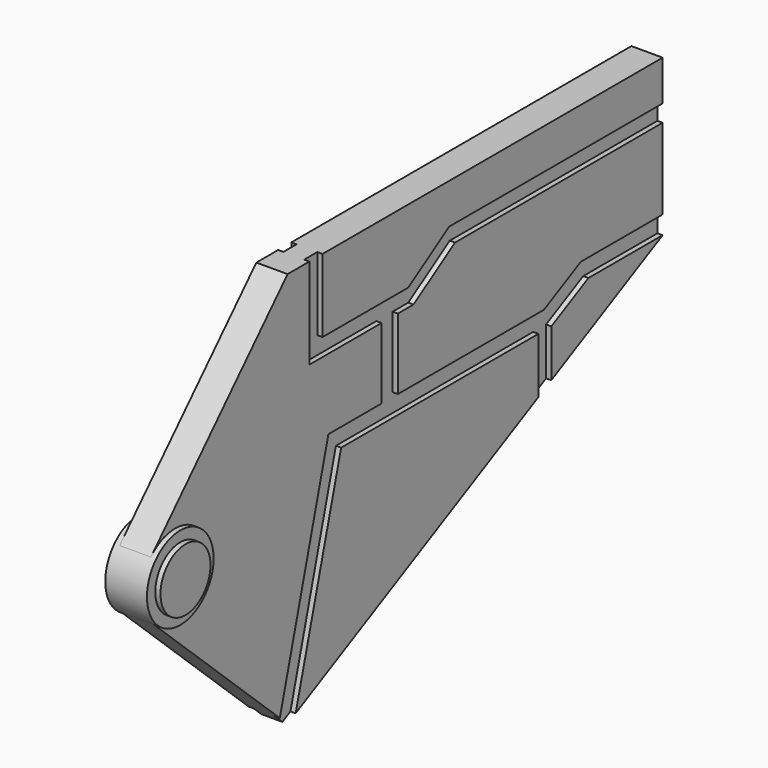
from build123d import *

# Parameters (mm, degrees)
F1_DEPTH = 100
F0_R     = 300
F2_DEPTH = 200
F3_DEPTH = 250
F4_DEPTH = 150


with BuildPart() as f1:
    # F0 (on Right) → F1 (new body, symmetric)
    with BuildSketch(Plane.YZ):
        Polygon((-955.8997750282, 1900), (-1113.7663125992, 1900), (-1113.7663125992, 1028.8891792297), (-248.2224702835, 1028.8891792297), (-248.2224702835, 348.4302759171), (-885.1320147514, 348.4302759171), (-1468.2381079638, -1813.3888693855), (-1375, -1900), (-1278.3731311349, -1850.6129336911), (-732.7092289925, 172.3922865995), (1634.0536525825, 172.3922865995), (1634.0536525825, -362.0392442356), (1788.7723194661, -282.9608144951), (1788.7723194661, 172.3922865995), (2234.091758728, 400), (3125, 400), (3125, 574.4746935349), (2142.8727660454, 574.4746935349), (1700.611948967, 348.4302759171), (-52.2503331304, 348.4302759171), (-52.2503331304, 1028.8891792297), (135.2747557652, 1028.8891792297), (633.6522698402, 1350.0658273697), (3125, 1350.0658273697), (3125, 1513.3759975433), (562.8845095634, 1513.3759975433), (72.9541033506, 1197.6430416107), (-955.8997750282, 1197.6430416107), align=None)
    extrude(amount=F1_DEPTH, both=True)



with BuildPart() as f2:
    # F0 (on Right) → F2 (new body, symmetric)
    with BuildSketch(Plane.YZ):
        with BuildLine():
            ThreePointArc((-3014.8549841969, 175.6521143329), (-3096.4444732112, 48.4217077144), (-3125, -99.9999988374))
            ThreePointArc((-3125, -99.9999988374), (-3091.6704092333, -259.8524663329), (-2997.2359441847, -393.0658470274))
            ThreePointArc((-2997.2359441847, -393.0658470274), (-2565.1475331342, -466.670409001), (-2325, -100))
            ThreePointArc((-2325, -100), (-2576.5782928254, 271.4444734269), (-3014.8549841969, 175.6521143329))
        make_face()
        with Locations((-2725, -100)):
            Circle(F0_R, mode=Mode.SUBTRACT)
    extrude(amount=F2_DEPTH, both=True)

    # F0 (on Right) → F3 (join, symmetric)
    with BuildSketch(Plane.YZ):
        with Locations((-2725, -100)):
            Circle(F0_R)
    extrude(amount=F3_DEPTH, both=True)


with BuildPart() as f1_1:
    add(f1.part)

    add(f2.part)  # F4 merges F2
    # F0 (on Right) → F4 (join, symmetric)
    with BuildSketch(Plane.YZ):
        with BuildLine():
            Line((-1113.7663125992, 1900), (-1375, 1900))
            Line((-1375, 1900), (-3014.8549841969, 175.6521143329))
            ThreePointArc((-3014.8549841969, 175.6521143329), (-2576.5782928254, 271.4444734269), (-2325, -100))
            ThreePointArc((-2325, -100), (-2565.1475331342, -466.670409001), (-2997.2359441847, -393.0658470274))
            Line((-2997.2359441847, -393.0658470274), (-1468.2381079638, -1813.3888693855))
            Line((-1468.2381079638, -1813.3888693855), (-885.1320147514, 348.4302759171))
            Line((-885.1320147514, 348.4302759171), (-248.2224702835, 348.4302759171))
            Line((-248.2224702835, 348.4302759171), (-248.2224702835, 1028.8891792297))
            Line((-248.2224702835, 1028.8891792297), (-1113.7663125992, 1028.8891792297))
            Line((-1113.7663125992, 1028.8891792297), (-1113.7663125992, 1900))
        make_face()
        Polygon((3125, 1900), (-955.8997750282, 1900), (-955.8997750282, 1197.6430416107), (72.9541033506, 1197.6430416107), (562.8845095634, 1513.3759975433), (3125, 1513.3759975433), align=None)
        Polygon((3125, 574.4746935349), (3125, 1350.0658273697), (633.6522698402, 1350.0658273697), (135.2747557652, 1028.8891792297), (-52.2503331304, 1028.8891792297), (-52.2503331304, 348.4302759171), (1700.611948967, 348.4302759171), (2142.8727660454, 574.4746935349), align=None)
        Polygon((-732.7092289925, 172.3922865995), (-1278.3731311349, -1850.6129336911), (1634.0536525825, -362.0392442356), (1634.0536525825, 172.3922865995), align=None)
        Polygon((1788.7723194661, -282.9608144951), (3125, 400), (2234.091758728, 400), (1788.7723194661, 172.3922865995), align=None)
    extrude(amount=F4_DEPTH, both=True)


solid = f1_1.part
